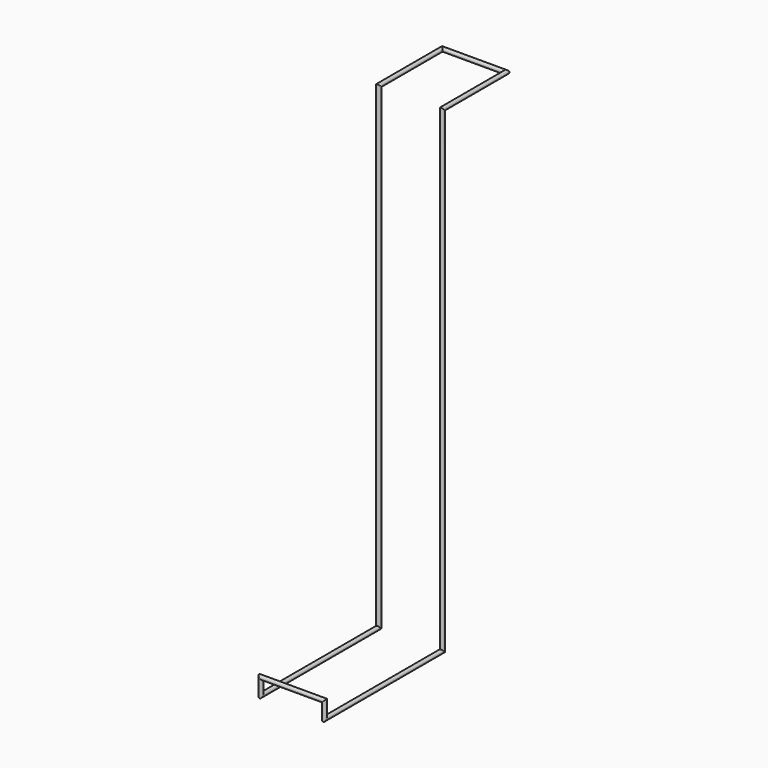
from build123d import *

# Parameters (mm, degrees)
F0_R = 3.175


with BuildPart() as f7:
    # F7: sweep along a path in F1, F2, F4, F6, F4, F2, F1
    with BuildLine(Plane.XY) as f7_path:
        Line((0, 0), (0, 127))
    with BuildLine(Plane.XZ) as f7_path_2:
        Line((0, 0), (0, -762))
    with BuildLine(Plane.XY.offset(-762)) as f7_path_3:
        Line((0, 0), (0, -234.95))
    with BuildLine(Plane.XZ.offset(234.95)) as f7_path_4:
        Line((0, -762), (0, -736.6))
        Line((0, -736.6), (101.6, -736.6))
        Line((101.6, -736.6), (101.6, -762))
    with BuildLine(Plane.XY.offset(-762)) as f7_path_5:
        Line((101.6, -234.95), (101.6, 0))
    with BuildLine(Plane.XZ) as f7_path_6:
        Line((101.6, 0), (101.6, -762))
    with BuildLine(Plane.XY) as f7_path_7:
        Line((101.6, 0), (101.6, 127))
        Line((101.6, 127), (0, 127))
    # F0 (on Front) → F7 (sweep)
    with BuildSketch(Plane.XZ):
        Circle(F0_R)
    sweep(path=f7_path.line + f7_path_2.line + f7_path_3.line + f7_path_4.line + f7_path_5.line + f7_path_6.line + f7_path_7.line, transition=Transition.RIGHT)


solid = f7.part
